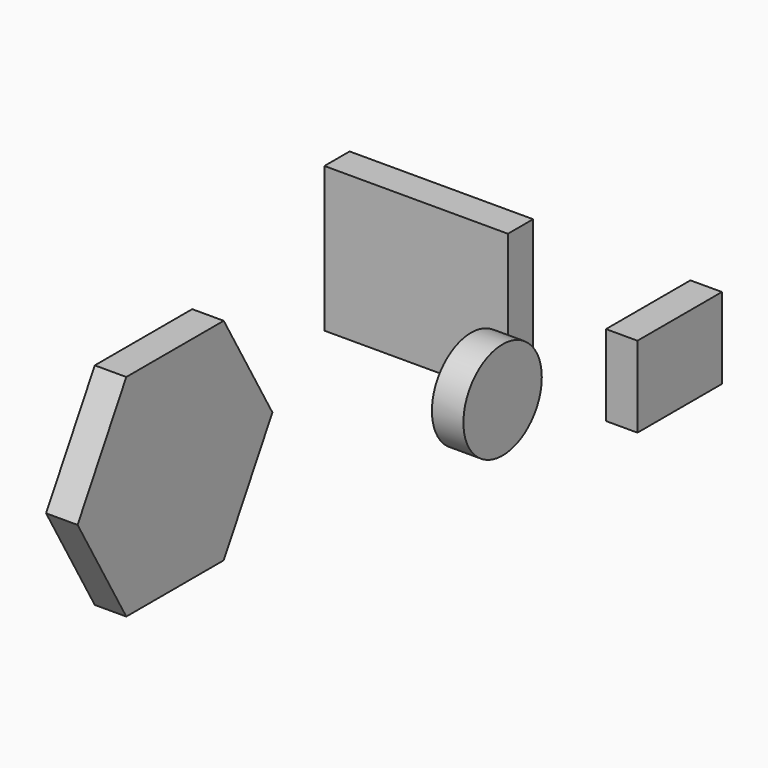
from build123d import *

# Parameters (mm, degrees)
F0_W     = 83.760487
F0_H     = 64.250222
F0_R     = 38.876768
F1_DEPTH = 25
F2_W     = 145.615034
F2_H     = 115.06843
F3_DEPTH = 25


with BuildPart() as f1:
    # F0 (on Right) → F1 (new body)
    with BuildSketch(Plane.YZ):
        with Locations((16.021307, 13.247897)):
            Rectangle(F0_W, F0_H)
        with Locations((-159.650877, 58.40461)):
            Circle(F0_R)
        Polygon((-532.916171, 58.772156), (-436.28318, 58.772156), (-387.966684, 142.458782), (-436.28318, 226.145407), (-532.916171, 226.145407), (-581.232667, 142.458782), align=None)
    extrude(amount=F1_DEPTH)


with BuildPart() as f3:
    # F2 (on Front) → F3 (new body)
    with BuildSketch(Plane.XZ):
        with Locations((-151.307512, 28.55775)):
            Rectangle(F2_W, F2_H)
    extrude(amount=F3_DEPTH)


solid = Compound([f1.part, f3.part])
